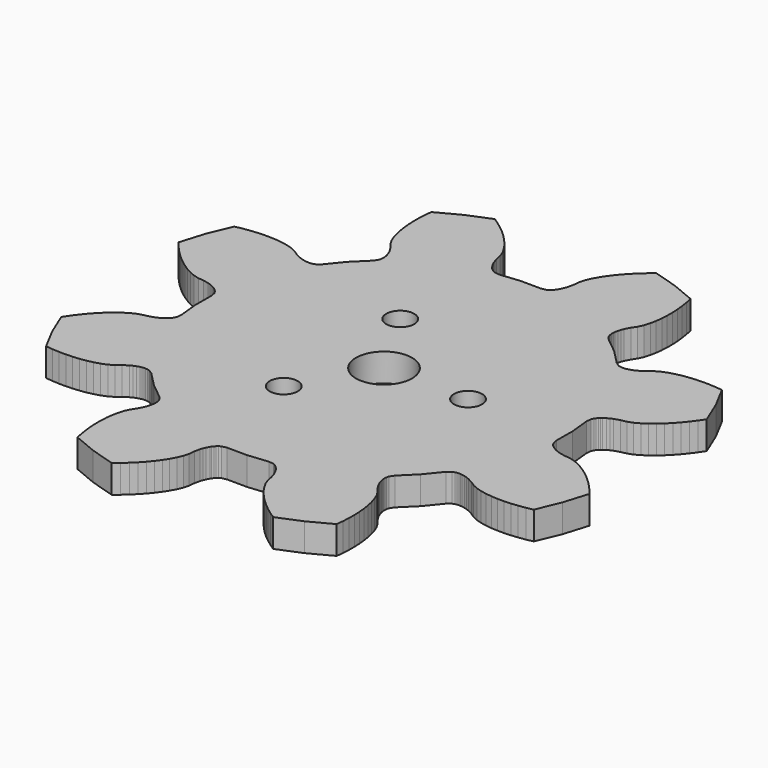
from build123d import *

# Parameters (mm, degrees)
F0_R     = 3.175
F1_DEPTH = 3.175
F2_R     = 1.5875
F3_DEPTH = 3.176


with BuildPart() as f1:
    # F0 (on Top) → F1 (new body)
    with BuildSketch(Plane.XY):
        Polygon((-20.689951, 1.864487), (-20.572857, 1.306195), (-20.591399, -0.970915), (-20.358481, -3.236341), (-20.422489, -3.803269), (-20.539583, -4.040759), (-20.666075, -4.220591), (-20.798155, -4.369435), (-20.934045, -4.497451), (-21.072983, -4.610227), (-21.357463, -4.800727), (-21.649309, -4.956429), (-21.946997, -5.084953), (-22.557105, -5.278501), (-23.183469, -5.402707), (-23.787735, -5.621147), (-24.367109, -5.940425), (-24.930481, -6.319393), (-25.478613, -6.748399), (-26.010997, -7.222871), (-26.527633, -7.738745), (-27.027251, -8.294243), (-27.509597, -8.887079), (-27.973401, -9.515983), (-28.417647, -10.179431), (-27.312747, -12.852527), (-25.957403, -15.407513), (-25.163145, -15.488031), (-24.382857, -15.531465), (-23.618825, -15.538069), (-22.872065, -15.506827), (-22.145371, -15.437739), (-21.440521, -15.329789), (-20.760563, -15.181199), (-20.109561, -14.988667), (-19.494119, -14.745589), (-18.940653, -14.419199), (-18.445607, -14.016101), (-17.907635, -13.669137), (-17.618837, -13.521563), (-17.312767, -13.396087), (-16.984599, -13.298297), (-16.809339, -13.262991), (-16.624173, -13.240131), (-16.425291, -13.233019), (-16.205835, -13.250291), (-15.948279, -13.311505), (-15.470759, -13.623671), (-13.873607, -15.246731), (-12.107291, -16.684117), (-11.751691, -17.130141), (-11.666347, -17.380839), (-11.628755, -17.597755), (-11.616817, -17.796383), (-11.622405, -17.982819), (-11.640947, -18.160619), (-11.707241, -18.496661), (-11.803507, -18.813145), (-11.923141, -19.114643), (-12.218035, -19.682841), (-12.572873, -20.213447), (-12.845415, -20.795107), (-13.029565, -21.430869), (-13.160121, -22.097111), (-13.243941, -22.787991), (-13.285343, -23.499953), (-13.285597, -24.229949), (-13.246227, -24.976201), (-13.167995, -25.736423), (-13.051155, -26.509091), (-12.896215, -27.292173), (-10.224897, -28.401137), (-7.459853, -29.249497), (-6.841363, -28.744799), (-6.258941, -28.223845), (-5.713857, -27.687905), (-5.207889, -27.137995), (-4.742815, -26.575385), (-4.320921, -26.000583), (-3.945255, -25.414605), (-3.620897, -24.818213), (-3.357753, -24.211153), (-3.196971, -23.589107), (-3.132201, -22.953853), (-2.997073, -22.328251), (-2.896997, -22.019641), (-2.769489, -21.714333), (-2.606421, -21.413343), (-2.507615, -21.264499), (-2.392807, -21.117179), (-2.257171, -20.971637), (-2.089785, -20.828635), (-1.864487, -20.689951), (-1.305941, -20.572857), (0.971169, -20.591399), (3.236341, -20.358481), (3.803269, -20.422489), (4.040759, -20.539583), (4.220845, -20.666075), (4.369689, -20.798155), (4.497705, -20.934045), (4.610227, -21.072983), (4.800981, -21.357463), (4.956429, -21.649309), (5.085207, -21.946997), (5.278501, -22.557105), (5.402961, -23.183469), (5.621401, -23.787735), (5.940679, -24.367109), (6.319393, -24.930481), (6.748653, -25.478613), (7.222871, -26.010997), (7.738999, -26.527633), (8.294243, -27.027251), (8.887333, -27.509597), (9.516237, -27.973401), (10.179431, -28.417647), (12.852527, -27.312747), (15.407513, -25.957403), (15.488031, -25.163145), (15.531719, -24.382857), (15.538069, -23.618825), (15.507081, -22.872065), (15.437993, -22.145371), (15.330043, -21.440521), (15.181199, -20.760563), (14.988667, -20.109561), (14.745589, -19.494119), (14.419453, -18.940653), (14.016101, -18.445607), (13.669137, -17.907635), (13.521817, -17.618837), (13.396087, -17.312767), (13.298297, -16.984599), (13.263245, -16.809339), (13.240131, -16.624173), (13.233273, -16.425291), (13.250291, -16.205835), (13.311759, -15.948279), (13.623671, -15.470759), (15.246985, -13.873607), (16.684117, -12.107291), (17.130395, -11.751691), (17.380839, -11.666347), (17.597755, -11.628755), (17.796383, -11.616817), (17.983073, -11.622405), (18.160873, -11.640947), (18.496661, -11.707241), (18.813145, -11.803507), (19.114643, -11.923141), (19.682841, -12.218035), (20.213701, -12.572873), (20.795361, -12.845415), (21.430869, -13.029565), (22.097111, -13.160121), (22.787991, -13.243941), (23.499953, -13.285343), (24.230203, -13.285597), (24.976201, -13.246227), (25.736423, -13.167995), (26.509091, -13.051155), (27.292427, -12.896215), (28.401391, -10.224897), (29.249497, -7.459853), (28.744799, -6.841363), (28.224099, -6.258941), (27.688159, -5.713857), (27.138249, -5.207889), (26.575385, -4.742815), (26.000583, -4.320921), (25.414605, -3.945255), (24.818213, -3.620897), (24.211153, -3.357753), (23.589107, -3.196971), (22.953853, -3.132201), (22.328251, -2.997073), (22.019641, -2.896997), (21.714587, -2.769489), (21.413343, -2.606421), (21.264499, -2.507615), (21.117179, -2.392807), (20.971637, -2.257171), (20.828635, -2.089785), (20.689951, -1.864487), (20.572857, -1.305941), (20.591399, 0.971169), (20.358735, 3.236341), (20.422743, 3.803269), (20.539583, 4.040759), (20.666329, 4.220845), (20.798409, 4.369689), (20.934299, 4.497705), (21.072983, 4.610227), (21.357463, 4.800981), (21.649309, 4.956429), (21.947251, 5.085207), (22.557359, 5.278501), (23.183469, 5.402961), (23.787735, 5.621401), (24.367363, 5.940679), (24.930735, 6.319393), (25.478613, 6.748653), (26.010997, 7.222871), (26.527633, 7.738999), (27.027505, 8.294243), (27.509597, 8.887333), (27.973401, 9.516237), (28.417647, 10.179431), (27.313001, 12.852527), (25.957657, 15.407513), (25.163145, 15.488031), (24.383111, 15.531719), (23.618825, 15.538069), (22.872319, 15.507081), (22.145371, 15.437993), (21.440521, 15.330043), (20.760563, 15.181199), (20.109561, 14.988667), (19.494119, 14.745589), (18.940653, 14.419453), (18.445607, 14.016101), (17.907889, 13.669137), (17.618837, 13.521817), (17.313021, 13.396087), (16.984599, 13.298297), (16.809339, 13.263245), (16.624173, 13.240131), (16.425291, 13.233273), (16.205835, 13.250291), (15.948279, 13.311759), (15.470759, 13.623671), (13.873607, 15.246985), (12.107291, 16.684117), (11.751691, 17.130395), (11.666601, 17.380839), (11.628755, 17.597755), (11.616817, 17.796383), (11.622405, 17.983073), (11.640947, 18.160873), (11.707495, 18.496661), (11.803761, 18.813145), (11.923395, 19.114643), (12.218035, 19.682841), (12.572873, 20.213701), (12.845669, 20.795361), (13.029565, 21.430869), (13.160121, 22.097111), (13.244195, 22.787991), (13.285343, 23.499953), (13.285597, 24.230203), (13.246481, 24.976201), (13.167995, 25.736423), (13.051409, 26.509091), (12.896469, 27.292427), (10.225151, 28.401391), (7.460107, 29.249497), (6.841363, 28.744799), (6.258941, 28.224099), (5.714111, 27.688159), (5.208143, 27.138249), (4.742815, 26.575385), (4.320921, 26.000583), (3.945255, 25.414605), (3.621151, 24.818213), (3.357753, 24.211153), (3.197225, 23.589107), (3.132201, 22.953853), (2.997327, 22.328251), (2.897251, 22.019641), (2.769743, 21.714587), (2.606675, 21.413343), (2.507615, 21.264499), (2.393061, 21.117179), (2.257171, 20.971637), (2.090039, 20.828635), (1.864487, 20.689951), (1.306195, 20.572857), (-0.970915, 20.591399), (-3.236341, 20.358735), (-3.803269, 20.422743), (-4.040759, 20.539583), (-4.220591, 20.666329), (-4.369435, 20.798409), (-4.497451, 20.934299), (-4.610227, 21.072983), (-4.800727, 21.357463), (-4.956429, 21.649309), (-5.084953, 21.947251), (-5.278501, 22.557359), (-5.402707, 23.183469), (-5.621147, 23.787735), (-5.940425, 24.367363), (-6.319393, 24.930735), (-6.748399, 25.478613), (-7.222871, 26.010997), (-7.738745, 26.527633), (-8.294243, 27.027505), (-8.887079, 27.509597), (-9.515983, 27.973401), (-10.179431, 28.417647), (-12.852527, 27.313001), (-15.407513, 25.957657), (-15.488031, 25.163145), (-15.531465, 24.383111), (-15.538069, 23.618825), (-15.506827, 22.872319), (-15.437739, 22.145371), (-15.329789, 21.440521), (-15.181199, 20.760563), (-14.988667, 20.109561), (-14.745589, 19.494119), (-14.419199, 18.940653), (-14.016101, 18.445607), (-13.669137, 17.907889), (-13.521563, 17.618837), (-13.396087, 17.313021), (-13.298297, 16.984599), (-13.262991, 16.809339), (-13.240131, 16.624173), (-13.233019, 16.425291), (-13.250291, 16.205835), (-13.311505, 15.948279), (-13.623671, 15.470759), (-15.246731, 13.873607), (-16.684117, 12.107291), (-17.130141, 11.751691), (-17.380839, 11.666601), (-17.597755, 11.628755), (-17.796383, 11.616817), (-17.982819, 11.622405), (-18.160619, 11.640947), (-18.496661, 11.707495), (-18.813145, 11.803761), (-19.114643, 11.923395), (-19.682841, 12.218035), (-20.213447, 12.572873), (-20.795107, 12.845669), (-21.430869, 13.029565), (-22.097111, 13.160121), (-22.787991, 13.244195), (-23.499953, 13.285343), (-24.229949, 13.285597), (-24.976201, 13.246481), (-25.736423, 13.167995), (-26.509091, 13.051409), (-27.292173, 12.896469), (-28.401137, 10.225151), (-29.249497, 7.460107), (-28.744799, 6.841363), (-28.223845, 6.258941), (-27.687905, 5.714111), (-27.137995, 5.208143), (-26.575385, 4.742815), (-26.000583, 4.320921), (-25.414605, 3.945255), (-24.818213, 3.621151), (-24.211153, 3.357753), (-23.589107, 3.197225), (-22.953853, 3.132201), (-22.328251, 2.997327), (-22.019641, 2.897251), (-21.714333, 2.769743), (-21.413343, 2.606675), (-21.264499, 2.507615), (-21.117179, 2.393061), (-20.971637, 2.257171), (-20.828635, 2.090039), align=None)
        with Locations((0.000127, 0.000127)):
            Circle(F0_R, mode=Mode.SUBTRACT)
    extrude(amount=F1_DEPTH)

    # F2 (on face) → F3 (cut, through all)
    with BuildSketch(Plane(origin=(0, 0, 0), x_dir=(1, 0, 0), z_dir=(0, 0, -1))):
        with Locations((-4.7625, 8.248892)):
            Circle(F2_R)
        with Locations((9.525, 0)):
            Circle(F2_R)
        with Locations((-4.7625, 8.248892)):
            Circle(F2_R)
        with Locations((-4.7625, -8.248892)):
            Circle(F2_R)
        with Locations((-4.7625, -8.248892)):
            Circle(F2_R)
        with Locations((9.525, 0)):
            Circle(F2_R)
    extrude(amount=-F3_DEPTH, mode=Mode.SUBTRACT)


solid = f1.part
